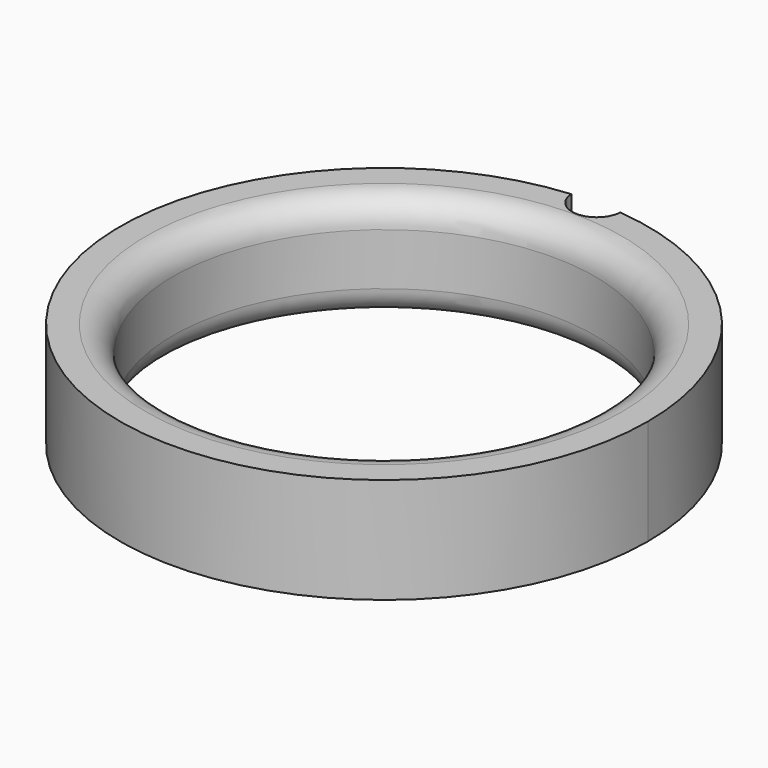
from build123d import *

# Parameters (mm, degrees)
F0_R     = 40
F1_DEPTH = 20
F2_R     = 5.08
F3_R     = 5.08


with BuildPart() as f1:
    # F0 (on Top) → F1 (new body)
    with BuildSketch(Plane.XY):
        with BuildLine():
            ThreePointArc((-115.457179, 96.407526), (-144.891009, 9.736149), (-61.108229, 46.597019))
            ThreePointArc((-61.108229, 46.597019), (-74.039839, 80.151967), (-106.145609, 96.350133))
            ThreePointArc((-106.145609, 96.350133), (-110.828783, 91.935219), (-115.457179, 96.407526))
        make_face()
        with Locations((-111.108229, 46.597019)):
            Circle(F0_R, mode=Mode.SUBTRACT)
    extrude(amount=F1_DEPTH)

    # F2
    f2_edges = [f1.edges().sort_by_distance(p)[0] for p in [
        (-151.108229, 46.597019, 20),
    ]]
    fillet(f2_edges, radius=F2_R)

    # F3
    f3_edges = [f1.edges().sort_by_distance(p)[0] for p in [
        (-151.108229, 46.597019, 0),
    ]]
    fillet(f3_edges, radius=F3_R)


solid = f1.part
